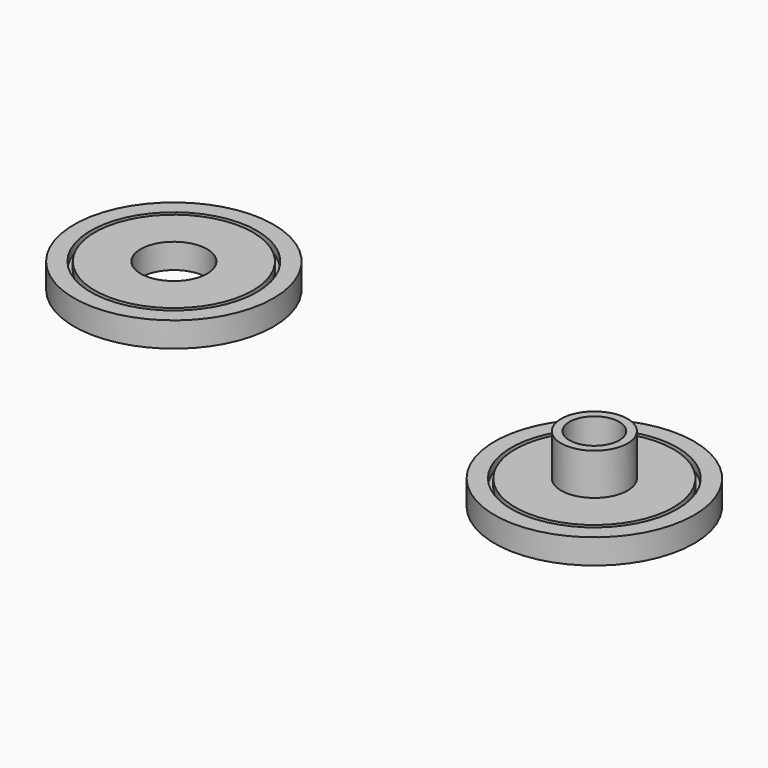
from build123d import *

# Parameters (mm, degrees)
F0_R     = 38.1
F0_R_2   = 31.75
F0_R_3   = 30.1498
F0_R_4   = 12.7
F1_DEPTH = 6.35
F2_DEPTH = 9.525
F3_R     = 38.1
F3_R_2   = 31.75
F3_R_3   = 30.1498
F3_R_4   = 12.7
F4_DEPTH = 6.35
F5_DEPTH = 9.525
F3_R_5   = 9.525
F6_DEPTH = 25.4


with BuildPart() as f1:
    # F0 (on Top) → F1 (new body)
    with BuildSketch(Plane.XY):
        Circle(F0_R)
        Circle(F0_R_2, mode=Mode.SUBTRACT)
        Circle(F0_R_2)
        Circle(F0_R_3, mode=Mode.SUBTRACT)
        Circle(F0_R_3)
        Circle(F0_R_4, mode=Mode.SUBTRACT)
    extrude(amount=F1_DEPTH)

    # F0 (on Top) → F2 (join)
    with BuildSketch(Plane.XY):
        Circle(F0_R)
        Circle(F0_R_2, mode=Mode.SUBTRACT)
        Circle(F0_R_3)
        Circle(F0_R_4, mode=Mode.SUBTRACT)
    extrude(amount=F2_DEPTH)


with BuildPart() as f4:
    # F3 (on Top) → F4 (new body)
    with BuildSketch(Plane.XY):
        with Locations((185.4030489922, -31.0417152941)):
            Circle(F3_R)
        with Locations((185.4030489922, -31.0417152941)):
            Circle(F3_R_2, mode=Mode.SUBTRACT)
        with Locations((185.4030489922, -31.0417152941)):
            Circle(F3_R_2)
        with Locations((185.4030489922, -31.0417152941)):
            Circle(F3_R_3, mode=Mode.SUBTRACT)
        with Locations((185.4030489922, -31.0417152941)):
            Circle(F3_R_3)
        with Locations((185.4030489922, -31.0417152941)):
            Circle(F3_R_4, mode=Mode.SUBTRACT)
    extrude(amount=F4_DEPTH)

    # F3 (on Top) → F5 (join)
    with BuildSketch(Plane.XY):
        with Locations((185.4030489922, -31.0417152941)):
            Circle(F3_R)
        with Locations((185.4030489922, -31.0417152941)):
            Circle(F3_R_2, mode=Mode.SUBTRACT)
        with Locations((185.4030489922, -31.0417152941)):
            Circle(F3_R_3)
        with Locations((185.4030489922, -31.0417152941)):
            Circle(F3_R_4, mode=Mode.SUBTRACT)
    extrude(amount=F5_DEPTH)

    # F3 (on Top) → F6 (join)
    with BuildSketch(Plane.XY):
        with Locations((185.4030489922, -31.0417152941)):
            Circle(F3_R_4)
        with Locations((185.4030489922, -31.0417152941)):
            Circle(F3_R_5, mode=Mode.SUBTRACT)
    extrude(amount=F6_DEPTH)


solid = Compound([f1.part, f4.part])
